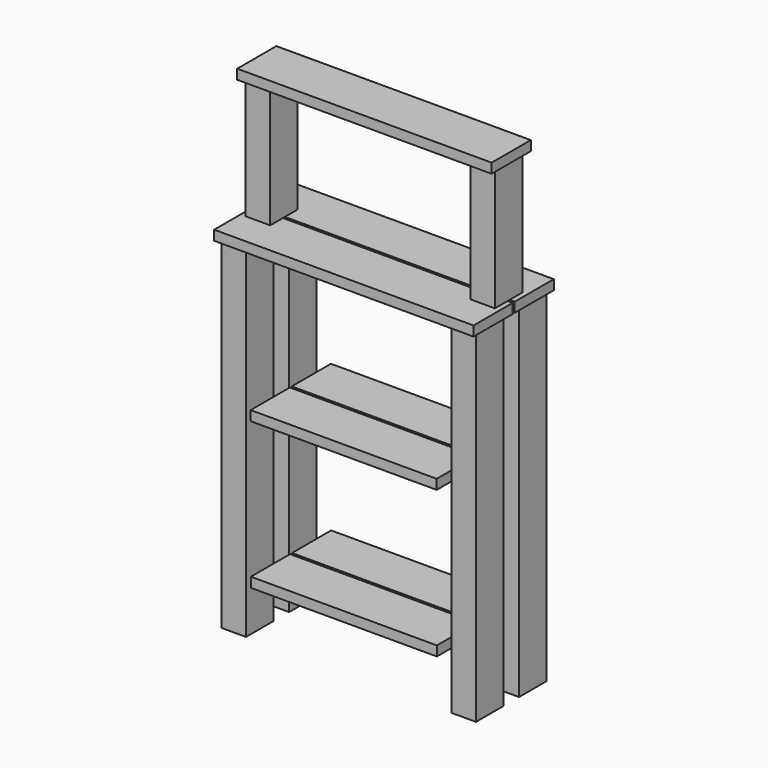
from build123d import *

# Parameters (mm, degrees)
F0_W      = 50
F0_H      = 70
F1_DEPTH  = 700
F2_W      = 530
F2_H      = 100
F3_DEPTH  = 20
F5_W      = 380.115924
F5_H      = 100
F6_DEPTH  = 20
F7_W      = 50
F7_H      = 70
F8_DEPTH  = 250
F9_W      = 520
F9_H      = 100
F10_DEPTH = 20
F12_W     = 380.115925
F12_H     = 100
F13_DEPTH = 20


with BuildPart() as f1:
    # F0 (on Top) → F1 (new body)
    with BuildSketch(Plane.XY):
        with Locations((-235, -55)):
            Rectangle(F0_W, F0_H)
        with Locations((-235, 55)):
            Rectangle(F0_W, F0_H)
        with Locations((235, 55)):
            Rectangle(F0_W, F0_H)
        with Locations((235, -55)):
            Rectangle(F0_W, F0_H)
    extrude(amount=F1_DEPTH)


with BuildPart() as f3:
    # F2 (on face) → F3 (new body)
    with BuildSketch(Plane.XY.offset(700)):
        with Locations((0, -52.5)):
            Rectangle(F2_W, F2_H)
        with Locations((0, 52.5)):
            Rectangle(F2_W, F2_H)
    extrude(amount=F3_DEPTH)


with BuildPart() as f6:
    # F5 (on offset) → F6 (new body)
    with BuildSketch(Plane.XY.offset(100)):
        with Locations((0, -52.5)):
            Rectangle(F5_W, F5_H)
        with Locations((0, 52.5)):
            Rectangle(F5_W, F5_H)
    extrude(amount=F6_DEPTH)


with BuildPart() as f8:
    # F7 (on face) → F8 (new body)
    with BuildSketch(Plane.XY.offset(720)):
        with Locations((-229.621953, 0)):
            Rectangle(F7_W, F7_H)
        with Locations((229.621953, 0)):
            Rectangle(F7_W, F7_H)
    extrude(amount=F8_DEPTH)


with BuildPart() as f10:
    # F9 (on face) → F10 (new body)
    with BuildSketch(Plane.XY.offset(970)):
        Rectangle(F9_W, F9_H)
    extrude(amount=F10_DEPTH)


with BuildPart() as f13:
    # F12 (on offset) → F13 (new body)
    with BuildSketch(Plane.XY.offset(400)):
        with Locations((-0.021234, -53.009988)):
            Rectangle(F12_W, F12_H)
        with Locations((-0.021234, 51.990012)):
            Rectangle(F12_W, F12_H)
    extrude(amount=F13_DEPTH)


solid = Compound([f1.part, f3.part, f6.part, f8.part, f10.part, f13.part])
